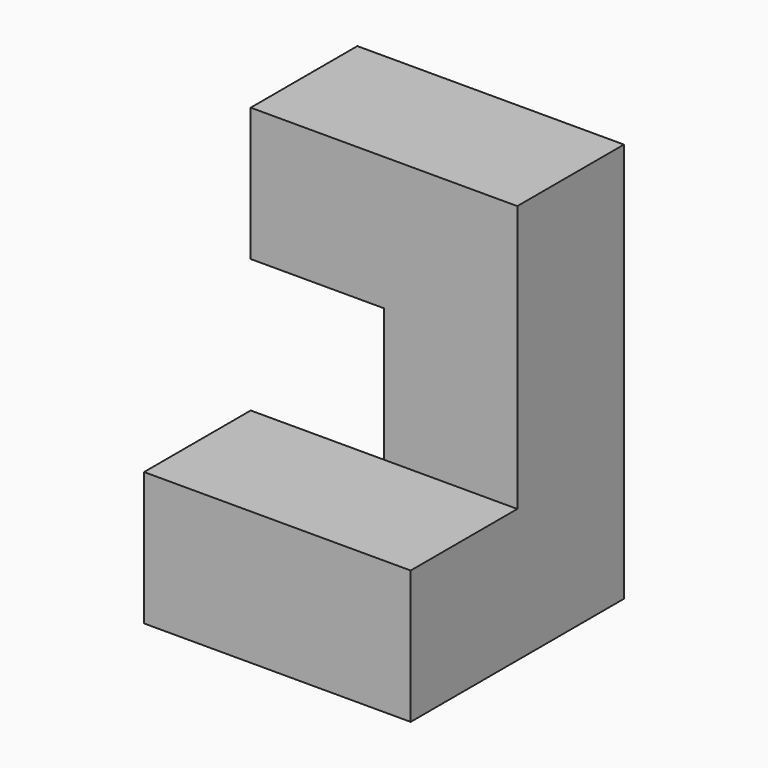
from build123d import *

# Parameters (mm, degrees)
F0_W     = 19.05
F0_H     = 19.05
F1_DEPTH = 19.05
F2_DEPTH = 19.05
F3_W     = 19.05
F3_H     = 19.05
F4_DEPTH = 19.05
F5_W     = 19.05
F5_H     = 19.05
F6_DEPTH = 19.05
F7_DEPTH = 19.05
F8_W     = 19.05
F8_H     = 19.05
F9_DEPTH = 19.05


with BuildPart() as f1:
    # F0 (on Top) → F1 (new body)
    with BuildSketch(Plane.XY):
        with Locations((9.525, 9.525)):
            Rectangle(F0_W, F0_H)
    extrude(amount=F1_DEPTH)

    # F2 (add): a face of the model
    f2_faces = [f1.faces().sort_by_distance(p)[0] for p in [
        (0, 9.525, 9.525),
    ]]
    extrude(f2_faces, amount=F2_DEPTH)

    # F3 (on face) → F4 (join)
    with BuildSketch(Plane(origin=(0, 19.05, 0), x_dir=(-1, 0, 0), z_dir=(0, 1, 0))):
        with Locations((-9.525, 9.525)):
            Rectangle(F3_W, F3_H)
    extrude(amount=F4_DEPTH)

    # F5 (on face) → F6 (join)
    with BuildSketch(Plane.XY.offset(19.05)):
        with Locations((9.525, 28.575)):
            Rectangle(F5_W, F5_H)
    extrude(amount=F6_DEPTH)

    # F7 (add): a face of the model
    f7_faces = [f1.faces().sort_by_distance(p)[0] for p in [
        (9.525, 28.575, 38.1),
    ]]
    extrude(f7_faces, amount=F7_DEPTH)

    # F8 (on face) → F9 (join)
    with BuildSketch(Plane(origin=(0, 0, 0), x_dir=(0, -1, 0), z_dir=(-1, 0, 0))):
        with Locations((-28.575, 47.625)):
            Rectangle(F8_W, F8_H)
    extrude(amount=F9_DEPTH)


solid = f1.part
